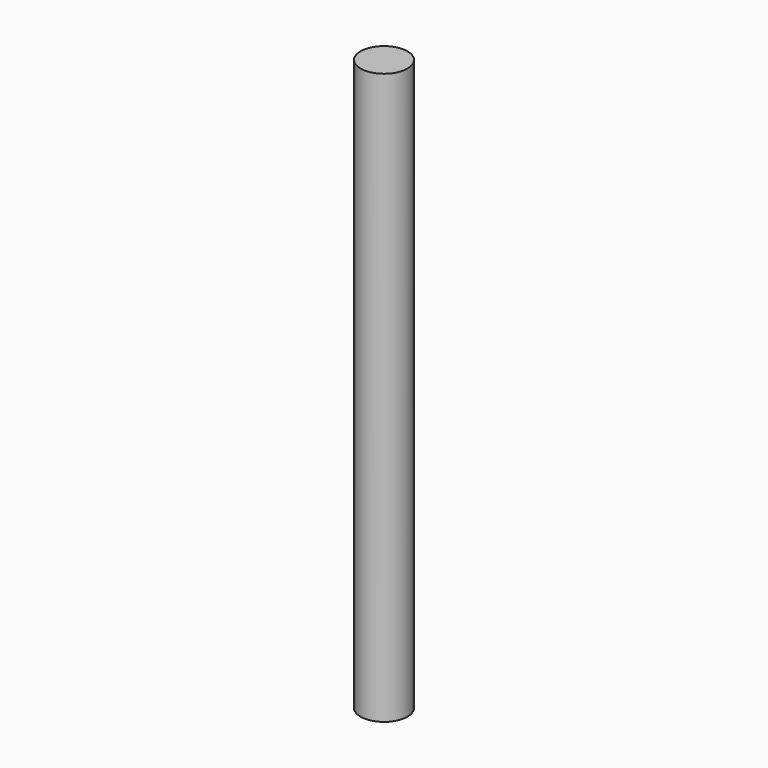
from build123d import *

# Parameters (mm, degrees)
F0_R     = 13.468889
F1_DEPTH = 328


with BuildPart() as f1:
    # F0 (on Top) → F1 (new body)
    with BuildSketch(Plane.XY):
        with Locations((4.384201, -12.735375)):
            Circle(F0_R)
    extrude(amount=-F1_DEPTH)


solid = f1.part
